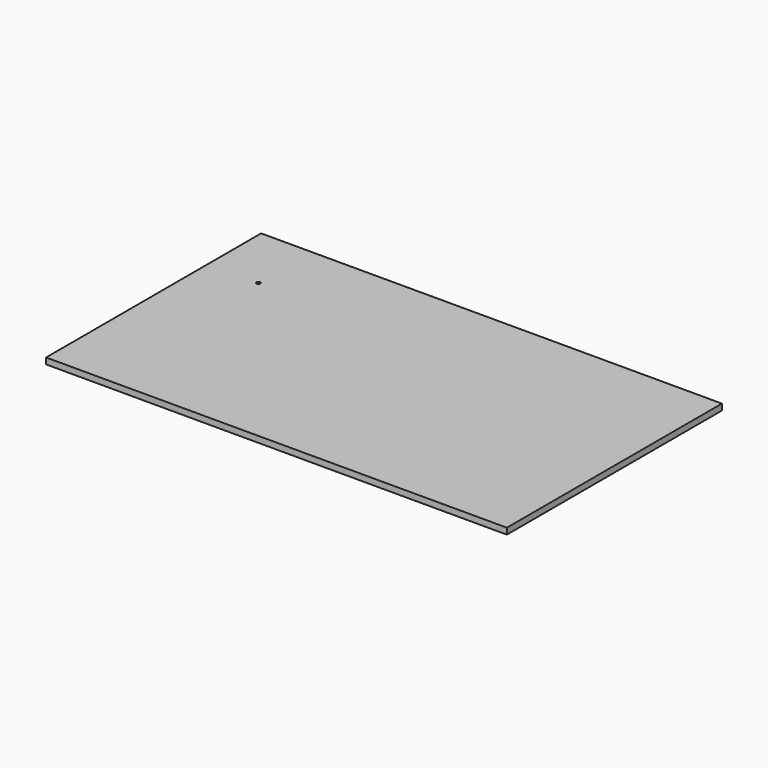
from build123d import *

# Parameters (mm, degrees)
SKETCH001_W = 120
SKETCH001_H = 70
SKETCH001_R = 0.5
PAD_DEPTH   = 1.6


with BuildPart() as part:
    # Sketch001 → Pad (new body)
    with BuildSketch(Plane.XY):
        with Locations((60, -35)):
            Rectangle(SKETCH001_W, SKETCH001_H)
        with Locations((13.2, -17.4)):
            Circle(SKETCH001_R, mode=Mode.SUBTRACT)
    extrude(amount=PAD_DEPTH)


solid = part.part
